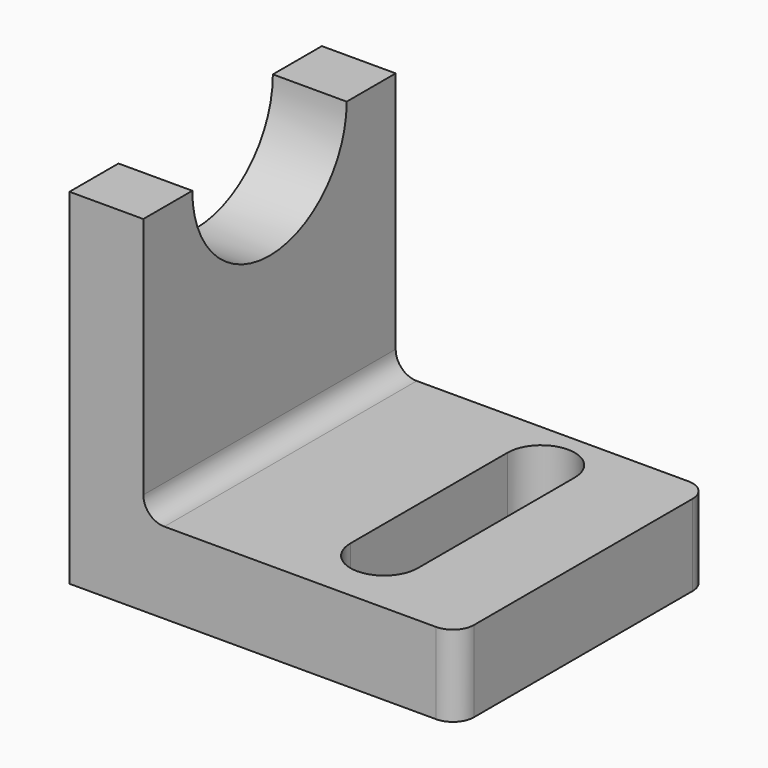
from build123d import *

# Parameters (mm, degrees)
F0_W     = 17.553337
F0_H     = 62.748581
F1_DEPTH = 75
F2_R     = 22.940745
F3_DEPTH = 25
F5_DEPTH = 19.308256
F6_R     = 5
F7_R     = 5


with BuildPart() as f1:
    # F0 (on Front) → F1 (new body)
    with BuildSketch(Plane.XZ):
        Polygon((-46.077821, -9.653628), (46.077821, -9.653628), (46.077821, 9.653628), (-28.524484, 9.653628), (-46.077821, 9.653628), align=None)
        with Locations((-37.301153, 41.027918)):
            Rectangle(F0_W, F0_H)
    extrude(amount=F1_DEPTH)

    # F2 (on face) → F3 (cut)
    with BuildSketch(Plane.YZ.offset(-28.524484)):
        with Locations((-37.5, 72.402209)):
            Circle(F2_R)
    extrude(amount=-F3_DEPTH, mode=Mode.SUBTRACT)

    # F4 (on face) → F5 (cut, through all)
    with BuildSketch(Plane.XY.offset(9.653628)):
        with BuildLine():
            Line((7.655139, -12.002843), (7.655139, -58.650463))
            ThreePointArc((7.655139, -58.650463), (15.655139, -66.650463), (23.655139, -58.650463))
            Line((23.655139, -58.650463), (23.655139, -12.002843))
            ThreePointArc((23.655139, -12.002843), (15.655139, -4.002843), (7.655139, -12.002843))
        make_face()
    extrude(amount=-F5_DEPTH, mode=Mode.SUBTRACT)

    # F6
    f6_edges = [f1.edges().sort_by_distance(p)[0] for p in [
        (46.077821, -75, 0),
        (46.077821, 0, 0),
    ]]
    fillet(f6_edges, radius=F6_R)

    # F7
    f7_edges = [f1.edges().sort_by_distance(p)[0] for p in [
        (-28.524484, -37.5, 9.653628),
    ]]
    fillet(f7_edges, radius=F7_R)


solid = f1.part
